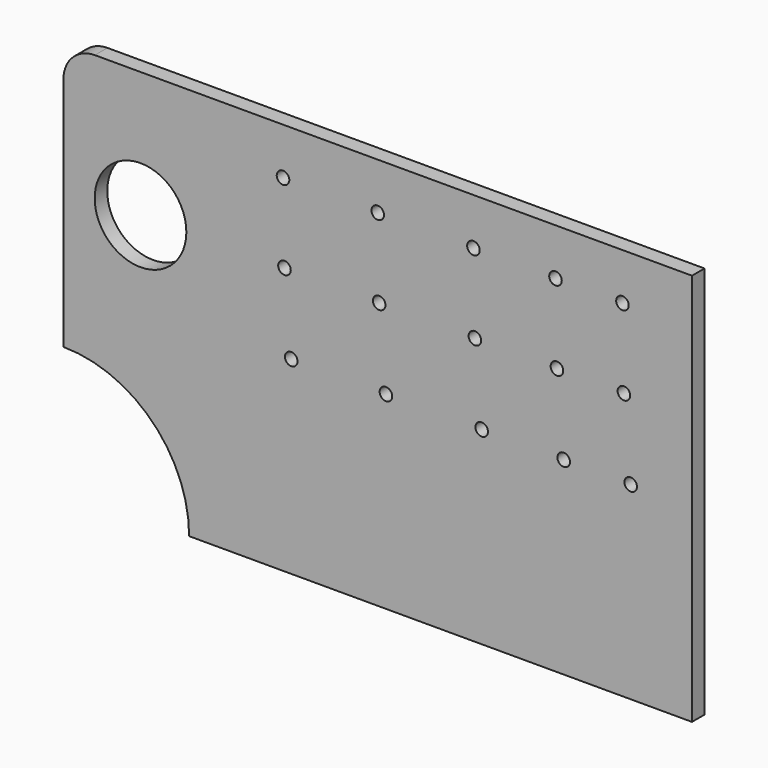
from build123d import *

# Parameters (mm, degrees)
F0_R     = 4
F0_R_2   = 29.171031
F1_DEPTH = 10


with BuildPart() as f1:
    # F0 (on Front) → F1 (new body)
    with BuildSketch(Plane.XZ):
        with BuildLine():
            Line((200, 125), (-180, 125))
            ThreePointArc((-180, 125), (-194.142136, 119.142136), (-200, 105))
            Line((-200, 105), (-200, -45))
            ThreePointArc((-200, -45), (-143.431458, -68.431458), (-120, -125))
            Line((-120, -125), (200, -125))
            Line((200, -125), (200, 125))
        make_face()
        with Locations((-55.033423, -4.654916)):
            Circle(F0_R, mode=Mode.SUBTRACT)
        with Locations((5.235739, -4.654916)):
            Circle(F0_R, mode=Mode.SUBTRACT)
        with Locations((66.157822, -4.654916)):
            Circle(F0_R, mode=Mode.SUBTRACT)
        with Locations((118.3732, -4.654916)):
            Circle(F0_R, mode=Mode.SUBTRACT)
        with Locations((160.996102, -4.654916)):
            Circle(F0_R, mode=Mode.SUBTRACT)
        with Locations((-150.960162, 44.787358)):
            Circle(F0_R_2, mode=Mode.SUBTRACT)
        with Locations((-59.337278, 45.036767)):
            Circle(F0_R, mode=Mode.SUBTRACT)
        with Locations((-60.269162, 95.248777)):
            Circle(F0_R, mode=Mode.SUBTRACT)
        with Locations((0.931884, 45.036767)):
            Circle(F0_R, mode=Mode.SUBTRACT)
        with Locations((61.853966, 45.036767)):
            Circle(F0_R, mode=Mode.SUBTRACT)
        with Locations((114.069345, 45.036767)):
            Circle(F0_R, mode=Mode.SUBTRACT)
        with Locations((156.692246, 45.036767)):
            Circle(F0_R, mode=Mode.SUBTRACT)
        with Locations((0, 95.248777)):
            Circle(F0_R, mode=Mode.SUBTRACT)
        with Locations((60.922083, 95.248777)):
            Circle(F0_R, mode=Mode.SUBTRACT)
        with Locations((113.137461, 95.248777)):
            Circle(F0_R, mode=Mode.SUBTRACT)
        with Locations((155.760363, 95.248777)):
            Circle(F0_R, mode=Mode.SUBTRACT)
    extrude(amount=F1_DEPTH)


solid = f1.part
